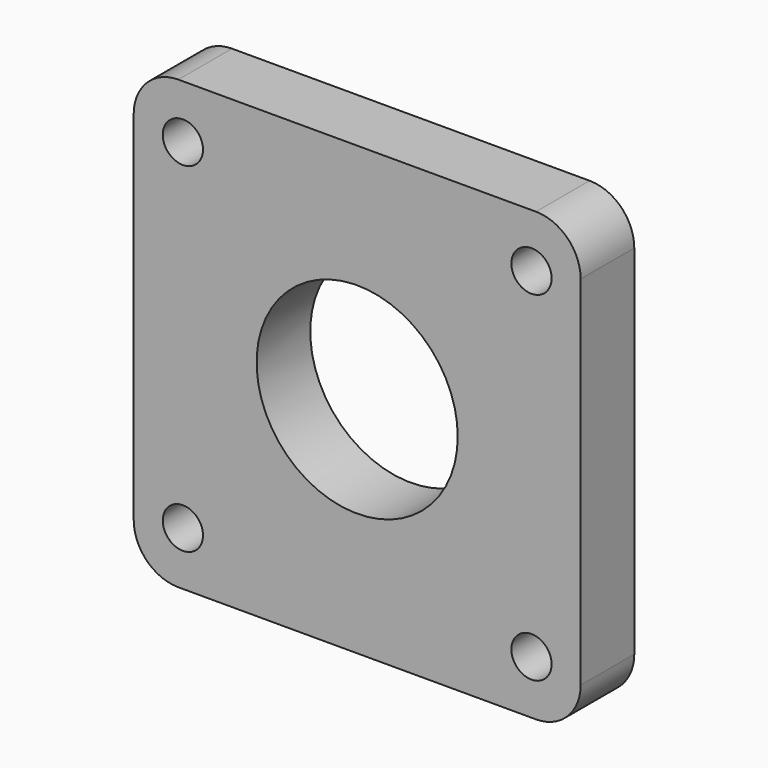
from build123d import *

# Parameters (mm, degrees)
F0_R     = 4.5
F0_R_2   = 22.5
F1_DEPTH = 15


with BuildPart() as f1:
    # F0 (on Front) → F1 (new body)
    with BuildSketch(Plane.XZ):
        with BuildLine():
            Line((40, 50), (-40, 50))
            ThreePointArc((-40, 50), (-47.071068, 47.071068), (-50, 40))
            Line((-50, 40), (-50, -40))
            ThreePointArc((-50, -40), (-47.071068, -47.071068), (-40, -50))
            Line((-40, -50), (40, -50))
            ThreePointArc((40, -50), (47.071068, -47.071068), (50, -40))
            Line((50, -40), (50, 40))
            ThreePointArc((50, 40), (47.071068, 47.071068), (40, 50))
        make_face()
        with Locations((-39, -38)):
            Circle(F0_R, mode=Mode.SUBTRACT)
        with Locations((39, -38)):
            Circle(F0_R, mode=Mode.SUBTRACT)
        with Locations((-39, 38)):
            Circle(F0_R, mode=Mode.SUBTRACT)
        Circle(F0_R_2, mode=Mode.SUBTRACT)
        with Locations((39, 38)):
            Circle(F0_R, mode=Mode.SUBTRACT)
    extrude(amount=F1_DEPTH)


solid = f1.part
